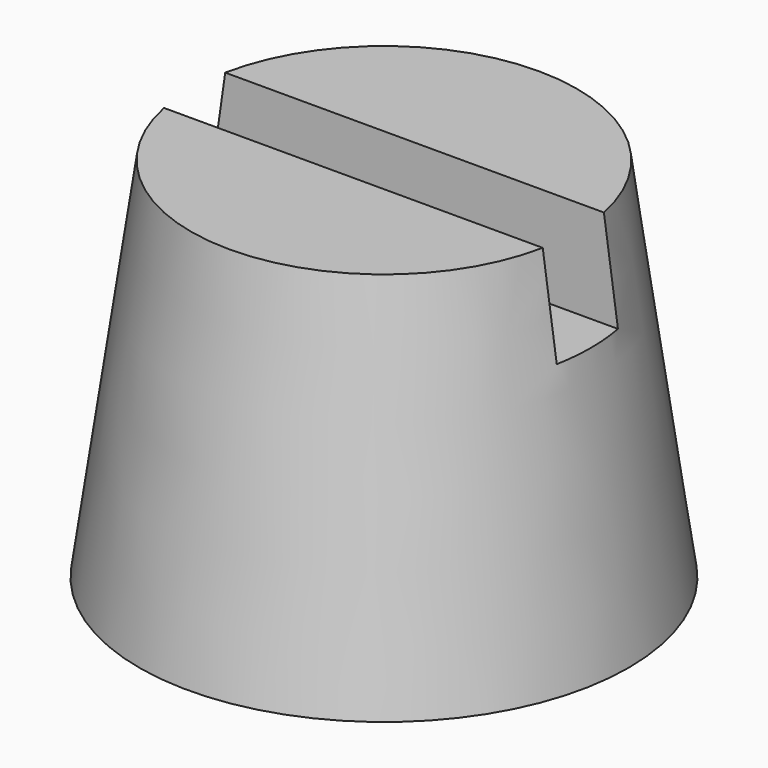
from build123d import *

# Parameters (mm, degrees)
F0_R     = 50.8
F1_DEPTH = 76.2
F1_TAPER = 8
F2_W     = 127
F2_H     = 15.875
F3_DEPTH = 20.32
F4_R     = 48.30064
F5_DEPTH = 49.276
F5_TAPER = 8


with BuildPart() as f1:
    # F0 (on Top) → F1 (new body)
    with BuildSketch(Plane.XY):
        Circle(F0_R)
    extrude(amount=F1_DEPTH, taper=F1_TAPER)

    # F2 (on face) → F3 (cut)
    with BuildSketch(Plane.XY.offset(76.2)):
        Rectangle(F2_W, F2_H)
    extrude(amount=-F3_DEPTH, mode=Mode.SUBTRACT)

    # F4 (on face) → F5 (cut)
    with BuildSketch(Plane(origin=(0, 0, 0), x_dir=(1, 0, 0), z_dir=(0, 0, -1))):
        Circle(F4_R)
    extrude(amount=-F5_DEPTH, taper=F5_TAPER, mode=Mode.SUBTRACT)


solid = f1.part
